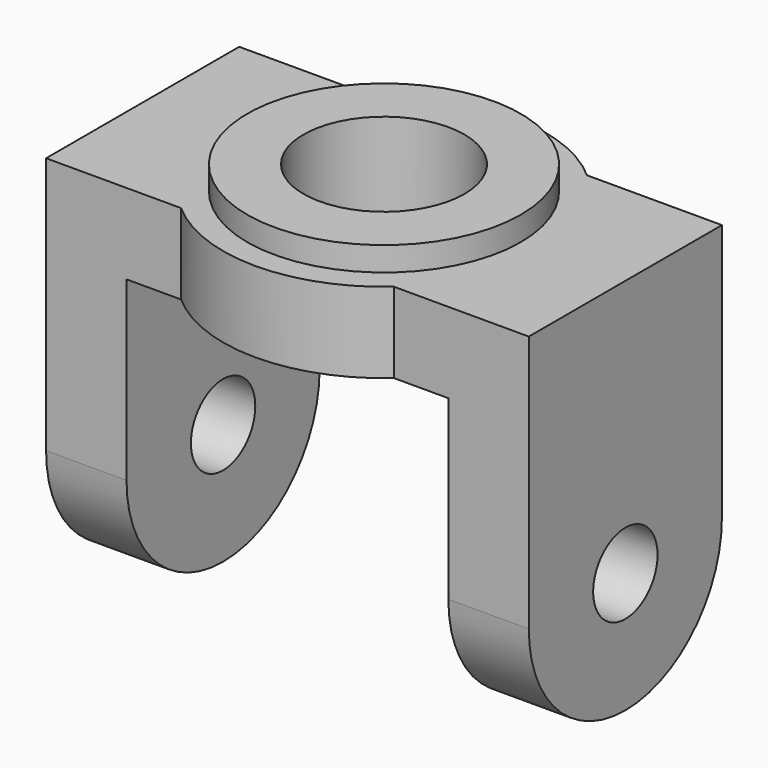
from build123d import *

# Parameters (mm, degrees)
F0_R     = 10
F1_DEPTH = 10
F2_R     = 17
F2_R_2   = 10
F3_DEPTH = 3
F4_W     = 10
F4_H     = 30
F5_DEPTH = 37
F6_R     = 5
F7_DEPTH = 60.001


with BuildPart() as f1:
    # F0 (on Top) → F1 (new body)
    with BuildSketch(Plane.XY):
        with BuildLine():
            Line((30, -15), (30, 15))
            Line((30, 15), (13.2287565553, 15))
            ThreePointArc((13.2287565553, 15), (18.2287565553, 8.2287565553), (20, 0))
            ThreePointArc((20, 0), (18.2287565553, -8.2287565553), (13.2287565553, -15))
            Line((13.2287565553, -15), (30, -15))
        make_face()
        with BuildLine():
            ThreePointArc((20, 0), (18.2287565553, 8.2287565553), (13.2287565553, 15))
            Line((13.2287565553, 15), (-13.2287565553, 15))
            ThreePointArc((-13.2287565553, 15), (-20, 0), (-13.2287565553, -15))
            Line((-13.2287565553, -15), (13.2287565553, -15))
            ThreePointArc((13.2287565553, -15), (18.2287565553, -8.2287565553), (20, 0))
        make_face()
        Circle(F0_R, mode=Mode.SUBTRACT)
        with BuildLine():
            Line((-13.2287565553, 15), (13.2287565553, 15))
            ThreePointArc((13.2287565553, 15), (0, 20), (-13.2287565553, 15))
        make_face()
        with BuildLine():
            ThreePointArc((-13.2287565553, -15), (-20, 0), (-13.2287565553, 15))
            Line((-13.2287565553, 15), (-30, 15))
            Line((-30, 15), (-30, -15))
            Line((-30, -15), (-13.2287565553, -15))
        make_face()
        with BuildLine():
            ThreePointArc((-13.2287565553, -15), (0, -20), (13.2287565553, -15))
            Line((13.2287565553, -15), (-13.2287565553, -15))
        make_face()
    extrude(amount=F1_DEPTH)

    # F2 (on face) → F3 (join)
    with BuildSketch(Plane.XY.offset(10)):
        Circle(F2_R)
        Circle(F2_R_2, mode=Mode.SUBTRACT)
    extrude(amount=F3_DEPTH)

    # F4 (on face) → F5 (join)
    with BuildSketch(Plane(origin=(0, 0, 0), x_dir=(1, 0, 0), z_dir=(0, 0, -1))):
        with Locations((-25, 0)):
            Rectangle(F4_W, F4_H)
        with Locations((25, 0)):
            Rectangle(F4_W, F4_H)
    extrude(amount=F5_DEPTH)

    # F6 (on face) → F7 (cut, through all)
    with BuildSketch(Plane.YZ.offset(30)):
        with BuildLine():
            ThreePointArc((0, -37), (-10.6066017409, -32.6066016947), (-15, -21.9999999346))
            Line((-15, -21.9999999346), (-15, -37))
            Line((-15, -37), (0, -37))
        make_face()
        with BuildLine():
            Line((15, -37), (15, -22))
            ThreePointArc((15, -22), (10.6066017178, -32.6066017178), (0, -37))
            Line((0, -37), (15, -37))
        make_face()
        with Locations((0, -22)):
            Circle(F6_R)
    extrude(amount=-F7_DEPTH, mode=Mode.SUBTRACT)


solid = f1.part
